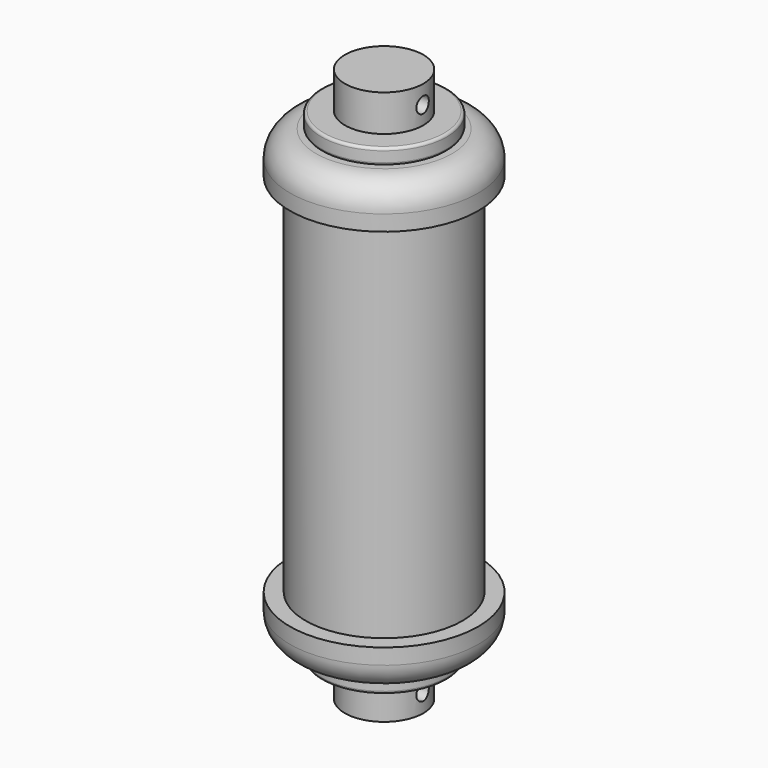
from build123d import *

# Parameters (mm, degrees)
F0_W     = 15
F0_H     = 70
F2_R     = 12
F2_R_2   = 7.5
F3_DEPTH = 3
F4_R     = 0.5
F5_R     = 0.5
F6_DEPTH = 10
F8_R     = 1.5
F9_DEPTH = 58.001


with BuildPart() as f1:
    # F0 (on Front) → F1 (revolve)
    with BuildSketch(Plane.XZ):
        with BuildLine():
            Line((15, -70), (0, -70))
            Line((0, -70), (0, -78))
            Line((0, -78), (13, -78))
            ThreePointArc((13, -78), (16.5355339059, -76.5355339059), (18, -73))
            Line((18, -73), (18, -70))
            Line((18, -70), (15, -70))
        make_face()
        with Locations((7.5, -35)):
            Rectangle(F0_W, F0_H)
        with BuildLine():
            Line((0, 8), (0, 0))
            Line((0, 0), (15, 0))
            Line((15, 0), (18, 0))
            Line((18, 0), (18, 3))
            ThreePointArc((18, 3), (16.5355339059, 6.5355339059), (13, 8))
            Line((13, 8), (0, 8))
        make_face()
    revolve(axis=Axis((0, 0, -35), (0, 0, -1)))



with BuildPart() as f3:
    # F2 (on face) → F3 (new body)
    with BuildSketch(Plane.XY.offset(8)):
        Circle(F2_R)
        Circle(F2_R_2, mode=Mode.SUBTRACT)
    extrude(amount=F3_DEPTH)

    # F4
    f4_edges = [f3.edges().sort_by_distance(p)[0] for p in [
        (-12, 0, 11),
    ]]
    fillet(f4_edges, radius=F4_R)

    # F5
    f5_edges = [f3.edges().sort_by_distance(p)[0] for p in [
        (-12, 0, 8),
    ]]
    fillet(f5_edges, radius=F5_R)


with BuildPart() as f6:
    # F2 (on face) → F6 (new body)
    with BuildSketch(Plane.XY.offset(8)):
        Circle(F2_R_2)
    extrude(amount=F6_DEPTH)

    # F8 (on offset) → F9 (cut, through all)
    with BuildSketch(Plane.YZ.offset(40)):
        with Locations((0, 14.4562739879)):
            Circle(F8_R)
    extrude(amount=-F9_DEPTH, mode=Mode.SUBTRACT)


with BuildPart() as f1_1:
    add(f1.part)

    add(f3.part)  # F11 merges F3

    add(f6.part)  # F11 merges F6
    # F11: F3, F6 across plane
    add(f3.part.mirror(Plane.XY.offset(-35)))
    add(f6.part.mirror(Plane.XY.offset(-35)))


solid = f1_1.part
